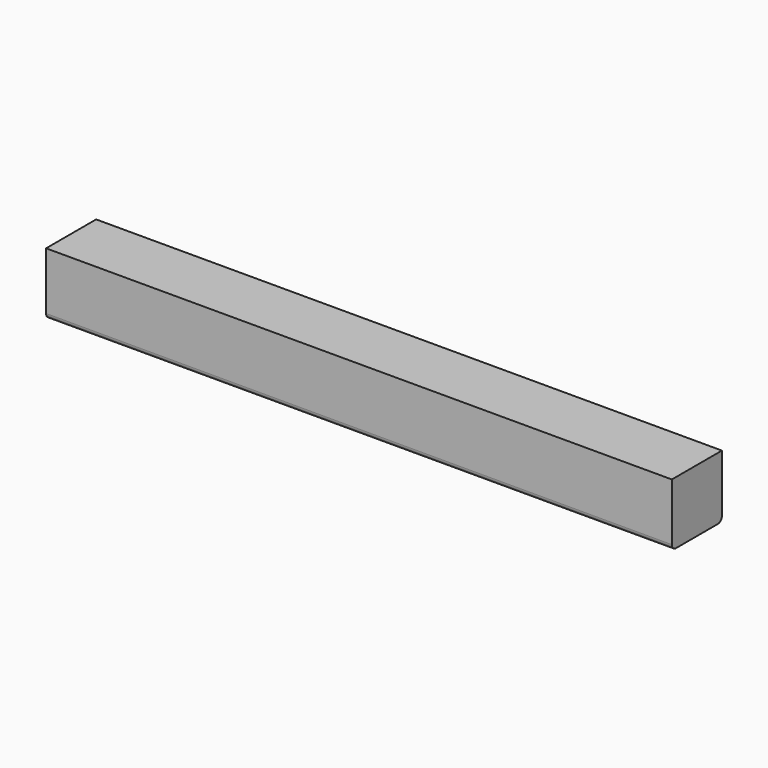
from build123d import *

# Parameters (mm, degrees)
F0_W     = 304.8
F0_H     = 304.8
F1_DEPTH = 3048
F2_R     = 25.4


with BuildPart() as f1:
    # F0 (on Right) → F1 (new body)
    with BuildSketch(Plane.YZ):
        with Locations((-30.614299, -12.242318)):
            Rectangle(F0_W, F0_H)
    extrude(amount=F1_DEPTH)

    # F2
    f2_edges = [f1.edges().sort_by_distance(p)[0] for p in [
        (1524, -183.014299, -164.642318),
        (1524, 121.785701, -164.642318),
    ]]
    fillet(f2_edges, radius=F2_R)


solid = f1.part
